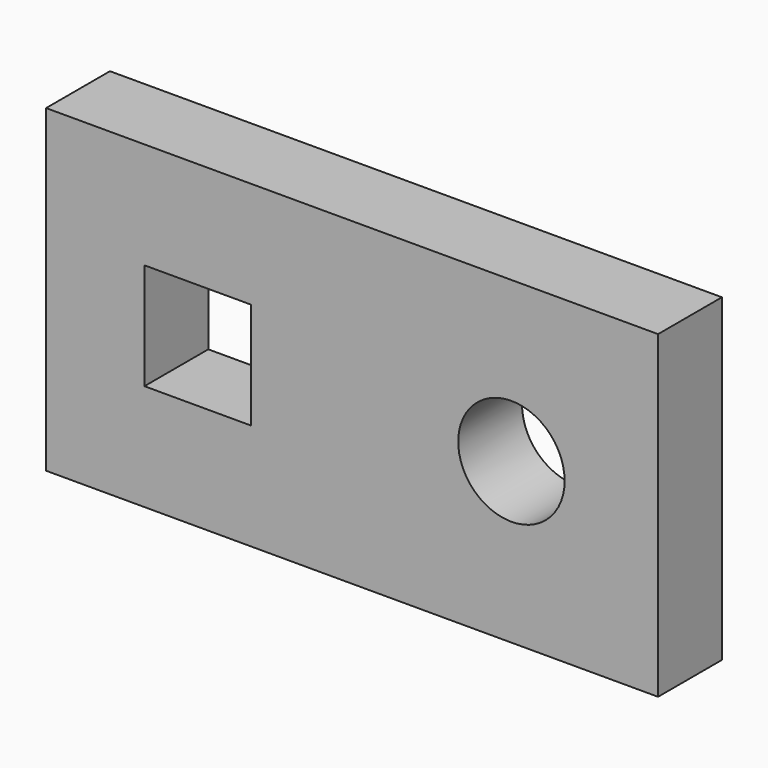
from build123d import *

# Parameters (mm, degrees)
F0_W     = 146.05
F0_H     = 76.2
F0_R     = 12.7
F1_DEPTH = 19.05


with BuildPart() as f1:
    # F0 (on Front) → F1 (new body)
    with BuildSketch(Plane.XZ):
        with Locations((1.476359, -27.465318)):
            Rectangle(F0_W, F0_H)
        Polygon((-48.074037, -40.165318), (-48.074037, -27.465318), (-48.074037, -20.425685), (-48.074037, -14.765318), (-22.674037, -14.765318), (-22.674037, -27.465318), (-22.674037, -40.165318), align=None, mode=Mode.SUBTRACT)
        with Locations((39.504297, -27.465318)):
            Circle(F0_R, mode=Mode.SUBTRACT)
    extrude(amount=F1_DEPTH)


solid = f1.part
